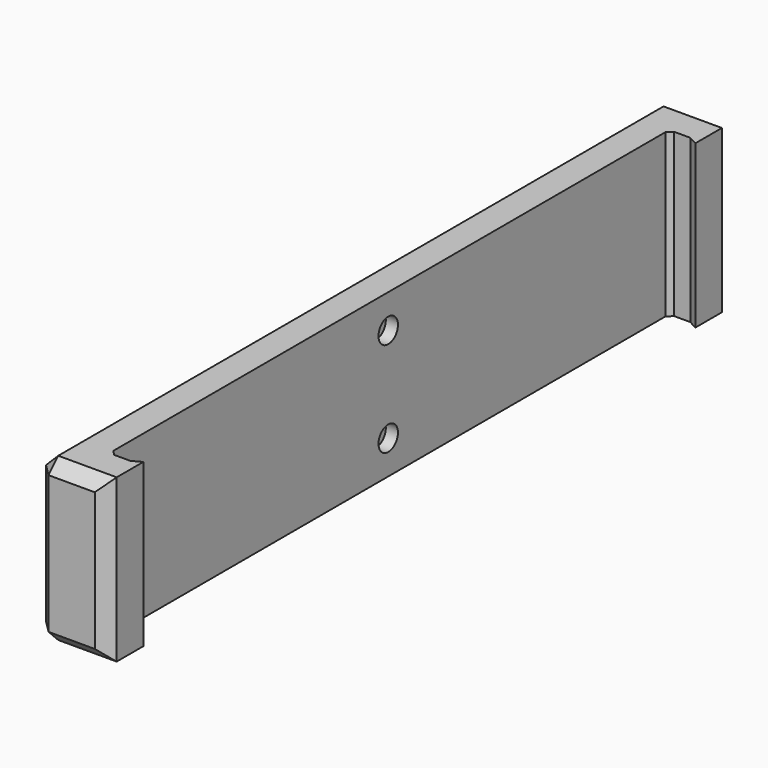
from build123d import *

# Parameters (mm, degrees)
F1_DEPTH = 40
F3_R     = 3
F4_DEPTH = 3
F5_R     = 1.5
F6_DEPTH = 12
F7_SIZE  = 3


with BuildPart() as f1:
    # F0 (on Top) → F1 (new body)
    with BuildSketch(Plane.XY):
        Polygon((0, 85.3687158704), (0, 86.5687158704), (-10, 86.5687158704), (-10, -85.9312841296), (0, -85.9312841296), (0, -84.7312841296), align=None)
        Polygon((1.2, 86.5687158704), (0, 86.5687158704), (0, 85.3687158704), align=None)
        Polygon((-10, 86.5687158704), (0, 86.5687158704), (1.2, 86.5687158704), (5.2, 86.5687158704), (7.4, 86.5687158704), (7.4, 96.5687158704), (-10, 96.5687158704), align=None)
        Polygon((0, -85.9312841296), (-10, -85.9312841296), (-10, -95.9312841296), (7.4, -95.9312841296), (7.4, -85.9312841296), (5.2, -85.9312841296), (1.2, -85.9312841296), align=None)
        Polygon((1.2, -85.9312841296), (0, -84.7312841296), (0, -85.9312841296), align=None)
        Polygon((7.4, 86.5687158704), (5.2, 86.5687158704), (7.4, 85.3687158704), align=None)
        Polygon((7.4, -84.7312841296), (5.2, -85.9312841296), (7.4, -85.9312841296), align=None)
    extrude(amount=F1_DEPTH)


with BuildPart() as f1_1:
    # F2: moved
    add(f1.part.moved(Location((0, 0, -20))))

    # F3 (on face) → F4 (cut)
    with BuildSketch(Plane.YZ):
        with Locations((0, 11.7)):
            Circle(F3_R)
        with Locations((0, -11.7)):
            Circle(F3_R)
    extrude(amount=-F4_DEPTH, mode=Mode.SUBTRACT)

    # F5 (on face) → F6 (cut)
    with BuildSketch(Plane.YZ):
        with Locations((0, 11.7)):
            Circle(F5_R)
        with Locations((0, -11.7)):
            Circle(F5_R)
    extrude(amount=-F6_DEPTH, mode=Mode.SUBTRACT)

    # F7
    f7_edges = [f1_1.edges().sort_by_distance(p)[0] for p in [
        (-1.3, -95.931284, 20),
        (-10, -95.931284, 0),
        (7.4, -95.931284, 0),
        (-1.3, -95.931284, -20),
        (7.4, 96.568716, 0),
        (-10, 96.568716, 0),
        (-1.3, 96.568716, -20),
        (-1.3, 96.568716, 20),
        (-10, 0.318716, 20),
        (-10, 0.318716, -20),
    ]]
    chamfer(f7_edges, length=F7_SIZE)


solid = f1_1.part
